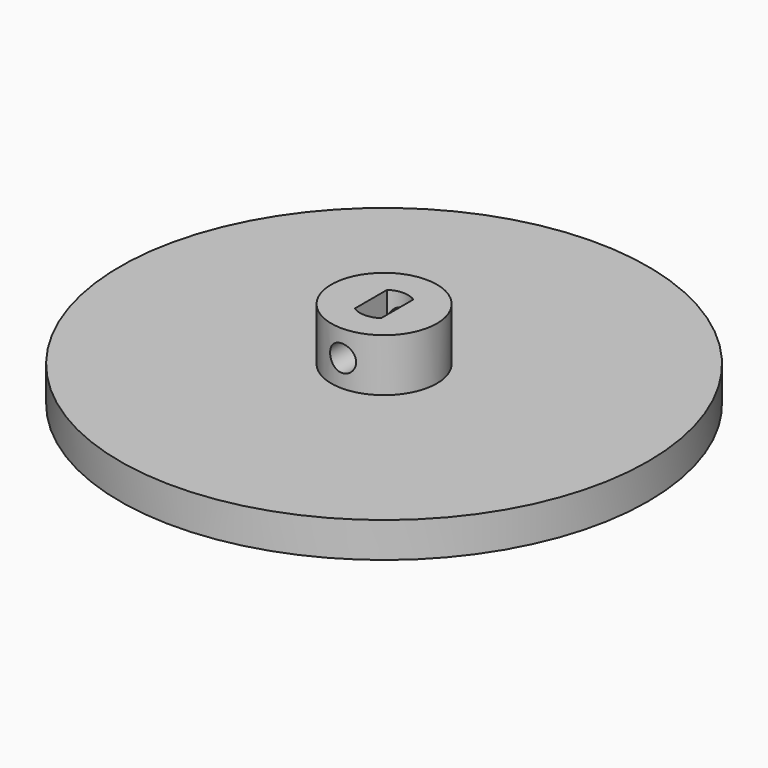
from build123d import *

# Parameters (mm, degrees)
F0_R          = 30
F1_DEPTH      = 4
F2_R          = 6
F3_DEPTH      = 10
F4_R          = 1.480547
F5_DEPTH      = 25
F5_DEPTH_BACK = 25
F7_DEPTH      = 9.4


with BuildPart() as f1:
    # F0 (on Top) → F1 (new body)
    with BuildSketch(Plane.XY):
        Circle(F0_R)
    extrude(amount=F1_DEPTH)

    # F2 (on Top) → F3 (join)
    with BuildSketch(Plane.XY):
        Circle(F2_R)
    extrude(amount=F3_DEPTH)

    # F4 (on Front) → F5 (cut, two sides)
    with BuildSketch(Plane.XZ) as f5_sk:
        with Locations((0, 7.019453)):
            Circle(F4_R)
    extrude(amount=F5_DEPTH, mode=Mode.SUBTRACT)
    extrude(f5_sk.sketch, amount=-F5_DEPTH_BACK, mode=Mode.SUBTRACT)

    # F6 (on face) → F7 (cut)
    with BuildSketch(Plane.XY.offset(10)):
        with BuildLine():
            Line((-1.491322, 2.3), (-1.491322, -2.3))
            ThreePointArc((-1.491322, -2.3), (0, -2.741175), (1.491322, -2.3))
            Line((1.491322, -2.3), (1.491322, 2.3))
            ThreePointArc((1.491322, 2.3), (0, 2.741175), (-1.491322, 2.3))
        make_face()
    extrude(amount=-F7_DEPTH, mode=Mode.SUBTRACT)


solid = f1.part
